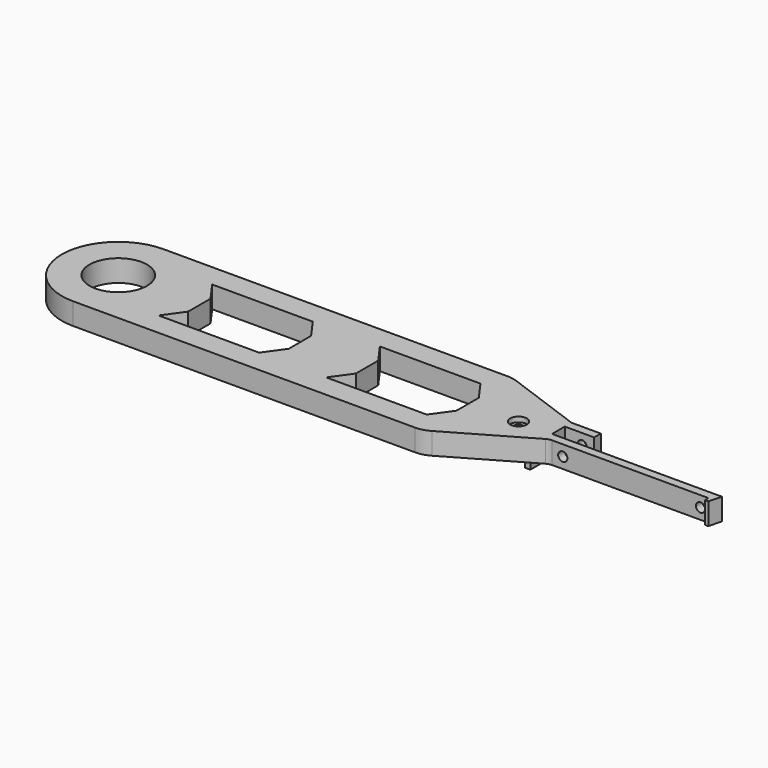
from build123d import *

# Parameters (mm, degrees)
SKETCH_R            = 10.3
PAD_DEPTH           = 7.8
SKETCH001_R         = 1.65
HOLE_DEPTH          = 22.485586
FILLET_R            = 10
FILLET001_R         = 4
HOLE001_D           = 3.3
HOLE001_CBORE_D     = 6
HOLE001_CBORE_DEPTH = 1.8
SKETCH003_W         = 2
SKETCH003_H         = 6
PAD001_DEPTH        = 4


with BuildPart() as part:
    # Sketch → Pad (new body)
    with BuildSketch(Plane.XY):
        with BuildLine():
            ThreePointArc((-125, 40.4), (-145.2, 20.2), (-125, 0))
            Line((-125, 0), (0, 0))
            Line((31.030407, 17.915414), (0, 0))
            Line((31.030407, 17.915414), (88.030407, 17.915414))
            Line((88.030407, 16.315414), (88.030407, 17.915414))
            Line((89.230407, 16.315414), (88.030407, 16.315414))
            Line((90.430407, 20.915414), (89.230407, 16.315414))
            Line((88.030407, 20.915414), (90.430407, 20.915414))
            Line((31.030407, 20.915414), (88.030407, 20.915414))
            Line((29.630407, 20.915414), (31.030407, 20.915414))
            Line((29.630407, 26.615414), (29.630407, 20.915414))
            Line((40.130407, 26.615414), (29.630407, 26.615414))
            Line((40.130407, 29.615414), (40.130407, 26.615414))
            Line((29.630407, 29.615414), (40.130407, 29.615414))
            Line((0, 40.4), (29.630407, 29.615414))
            Line((-125, 40.4), (0, 40.4))
        make_face()
        with Locations((-125, 20.2)):
            Circle(SKETCH_R, mode=Mode.SUBTRACT)
        Polygon((-101, 32.2), (-96, 25.2), (-96, 15.2), (-101, 8.2), (-65, 8.2), (-60, 15.2), (-60, 25.2), (-65, 32.2), align=None, mode=Mode.SUBTRACT)
        Polygon((-41, 32.2), (-36, 25.2), (-36, 15.2), (-41, 8.2), (-5, 8.2), (0, 15.2), (0, 25.2), (-5, 32.2), align=None, mode=Mode.SUBTRACT)
    extrude(amount=PAD_DEPTH)

    # Sketch001 (on Face5 of Pad) → Hole (cut, through all)
    with BuildSketch(Plane.XZ.offset(-17.915414)):
        with Locations((85.180407, 3.9)):
            Circle(SKETCH001_R)
        with Locations((35.880407, 3.9)):
            Circle(SKETCH001_R)
    extrude(amount=-HOLE_DEPTH, mode=Mode.SUBTRACT)

    # Fillet
    fillet_edges = [part.edges().sort_by_distance(p)[0] for p in [
        (0, 0, 3.9),
        (0, 40.4, 3.9),
    ]]
    fillet(fillet_edges, radius=FILLET_R)

    # Fillet001
    fillet001_edges = [part.edges().sort_by_distance(p)[0] for p in [
        (31.030407, 17.915414, 3.9),
    ]]
    fillet(fillet001_edges, radius=FILLET001_R)

    # Hole001 (through all)
    with Locations(Plane.XY.offset(7.8)):
        with Locations((17.630407, 20.915414)):
            CounterBoreHole(HOLE001_D / 2, HOLE001_CBORE_D / 2, HOLE001_CBORE_DEPTH)

    # Sketch003 (on Face1 of Hole001) → Pad001 (join)
    with BuildSketch(Plane(origin=(0, 0, 0), x_dir=(1, 0, 0), z_dir=(0, 0, -1))):
        with Locations((23.280407, -20.915414)):
            Rectangle(SKETCH003_W, SKETCH003_H)
    extrude(amount=PAD001_DEPTH)


solid = part.part
